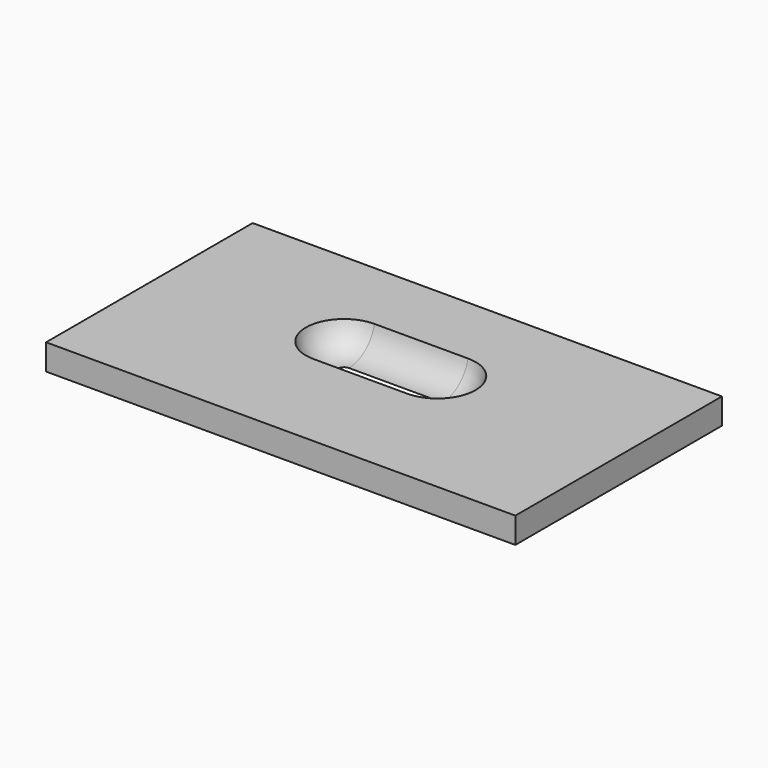
from build123d import *

# Parameters (mm, degrees)
F1_DEPTH = 15.5448
F2_R     = 15.452898
F3_W     = 221.588438
F3_H     = 121.92
F4_DEPTH = 12.192


with BuildPart() as f1:
    # F0 (on Top) → F1 (new body)
    with BuildSketch(Plane.XY):
        with BuildLine():
            ThreePointArc((0, 36.634617), (-18.317308, 18.317308), (0, 0))
            Line((0, 0), (44.156924, 0))
            ThreePointArc((44.156924, 0), (62.474232, 18.317308), (44.156924, 36.634617))
            Line((44.156924, 36.634617), (0, 36.634617))
        make_face()
    extrude(amount=F1_DEPTH)

    # F2
    f2_edges = [f1.edges().sort_by_distance(p)[0] for p in [
        (22.078462, 36.634617, 0),
        (62.474232, 18.317308, 0),
        (-18.317308, 18.317308, 0),
    ]]
    fillet(f2_edges, radius=F2_R)


with BuildPart() as f4:
    # F3 (on Top) → F4 (new body)
    with BuildSketch(Plane.XY):
        with Locations((25.399999, 10.16)):
            Rectangle(F3_W, F3_H)
    extrude(amount=F4_DEPTH)

    # F5: cut F1
    add(f1.part, mode=Mode.SUBTRACT)


with BuildPart() as f4_1:
    # F6: moved
    add(f4.part.moved(Location((0, 0, -2.7432))))


solid = f4_1.part
